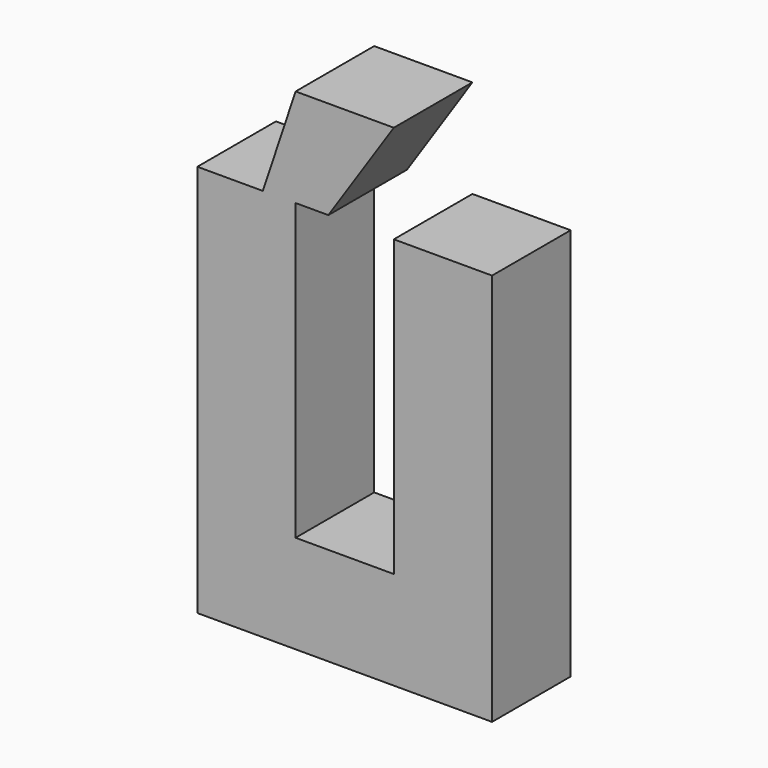
from build123d import *

# Parameters (mm, degrees)
F0_W     = 40
F0_H     = 40
F1_DEPTH = 40


with BuildPart() as f1:
    # F0 (on Front) → F1 (new body)
    with BuildSketch(Plane.XZ):
        Polygon((-6.67, 60), (20, 100), (-20, 100), (-20, 60), align=None)
        Polygon((-20, 60), (-20, 100), (-33.33, 60), align=None)
        Polygon((-20, 20), (-20, 60), (-33.33, 60), (-60, 60), (-60, 20), align=None)
        with Locations((-40, 0)):
            Rectangle(F0_W, F0_H)
        with Locations((-40, -40)):
            Rectangle(F0_W, F0_H)
        with Locations((-40, -80)):
            Rectangle(F0_W, F0_H)
        with Locations((0, -80)):
            Rectangle(F0_W, F0_H)
        with Locations((40, -80)):
            Rectangle(F0_W, F0_H)
        with Locations((40, -40)):
            Rectangle(F0_W, F0_H)
        with Locations((40, 0)):
            Rectangle(F0_W, F0_H)
        with Locations((40, 40)):
            Rectangle(F0_W, F0_H)
    extrude(amount=F1_DEPTH)


solid = f1.part
